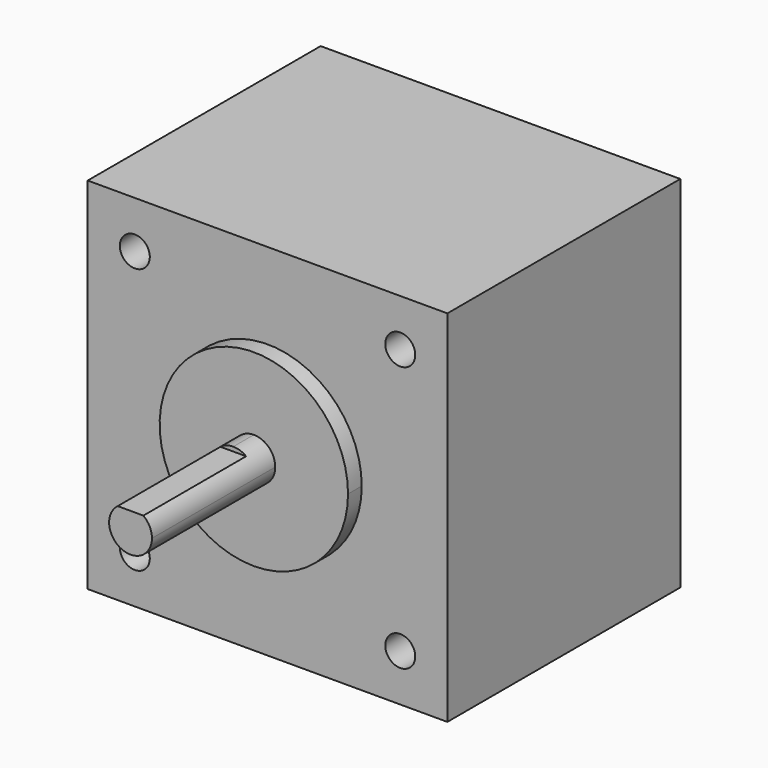
from build123d import *

# Parameters (mm, degrees)
F1_DEPTH = 21
F3_DEPTH = 2
F4_DEPTH = 20
F6_DEPTH = 15
F8_D     = 3.5
F8_DEPTH = 10.16
F8_TIP   = 1.0515060833


with BuildPart() as f1:
    # F0 (on Right) → F1 (new body, symmetric)
    with BuildSketch(Plane.YZ):
        Polygon((-29.2894222864, 37.3821025362), (-63.2894222864, 37.3821025362), (-63.2894222864, 27.3821025362), (-63.2894222864, 16.3821025362), (-63.2894222864, 5.3821025362), (-63.2894222864, -4.6178974638), (-29.2894222864, -4.6178974638), (-29.2894222864, 16.3821025362), align=None)
    extrude(amount=F1_DEPTH, both=True)

    # F2 (on face) → F3 (join)
    with BuildSketch(Plane.XZ.offset(63.2894222864)):
        with BuildLine():
            Line((0, 5.3821025362), (0, 13.8821025362))
            ThreePointArc((0, 13.8821025362), (-2.5, 16.3821025362), (0, 18.8821025362))
            Line((0, 18.8821025362), (0, 27.3821025362))
            ThreePointArc((0, 27.3821025362), (-11, 16.3821025362), (0, 5.3821025362))
        make_face()
        with BuildLine():
            ThreePointArc((2.5, 16.3821025362), (1.767766953, 14.6143355832), (0, 13.8821025362))
            Line((0, 13.8821025362), (0, 5.3821025362))
            ThreePointArc((0, 5.3821025362), (7.7781745931, 8.6039279431), (11, 16.3821025362))
            ThreePointArc((11, 16.3821025362), (7.7781745931, 24.1602771292), (0, 27.3821025362))
            Line((0, 27.3821025362), (0, 18.8821025362))
            ThreePointArc((0, 18.8821025362), (1.767766953, 18.1498694891), (2.5, 16.3821025362))
        make_face()
    extrude(amount=F3_DEPTH)

    # F8
    with Locations(Plane.XZ.offset(63.2894222864)):
        with Locations((-15.5, 31.8821025362), (15.5, 31.8821025362), (15.5, 0.8821025362), (-15.5, 0.8821025362)):
            Hole(F8_D / 2, depth=F8_DEPTH)
            with Locations((0, 0, -(F8_DEPTH + F8_TIP / 2))):  # 118° drill point
                Cone(0, F8_D / 2, F8_TIP, mode=Mode.SUBTRACT)


with BuildPart() as f4:
    # F2 (on face) → F4 (new body)
    with BuildSketch(Plane.XZ.offset(63.2894222864)):
        with BuildLine():
            Line((0, 13.8821025362), (0, 16.3821025362))
            Line((0, 16.3821025362), (0, 18.3821025362))
            Line((0, 18.3821025362), (0, 18.8821025362))
            ThreePointArc((0, 18.8821025362), (-2.5, 16.3821025362), (0, 13.8821025362))
        make_face()
        with BuildLine():
            Line((0, 18.3821025362), (0, 16.3821025362))
            Line((0, 16.3821025362), (0, 13.8821025362))
            ThreePointArc((0, 13.8821025362), (1.767766953, 14.6143355832), (2.5, 16.3821025362))
            ThreePointArc((2.5, 16.3821025362), (1.767766953, 18.1498694891), (0, 18.8821025362))
            Line((0, 18.8821025362), (0, 18.3821025362))
        make_face()
    extrude(amount=F4_DEPTH)

    # F5 (on face) → F6 (cut)
    with BuildSketch(Plane.XZ.offset(83.2894222864)):
        with BuildLine():
            ThreePointArc((1.5, 18.3821025362), (0, 18.8821025362), (-1.5, 18.3821025362))
            Line((-1.5, 18.3821025362), (1.5, 18.3821025362))
        make_face()
    extrude(amount=-F6_DEPTH, mode=Mode.SUBTRACT)


solid = Compound([f1.part, f4.part])
